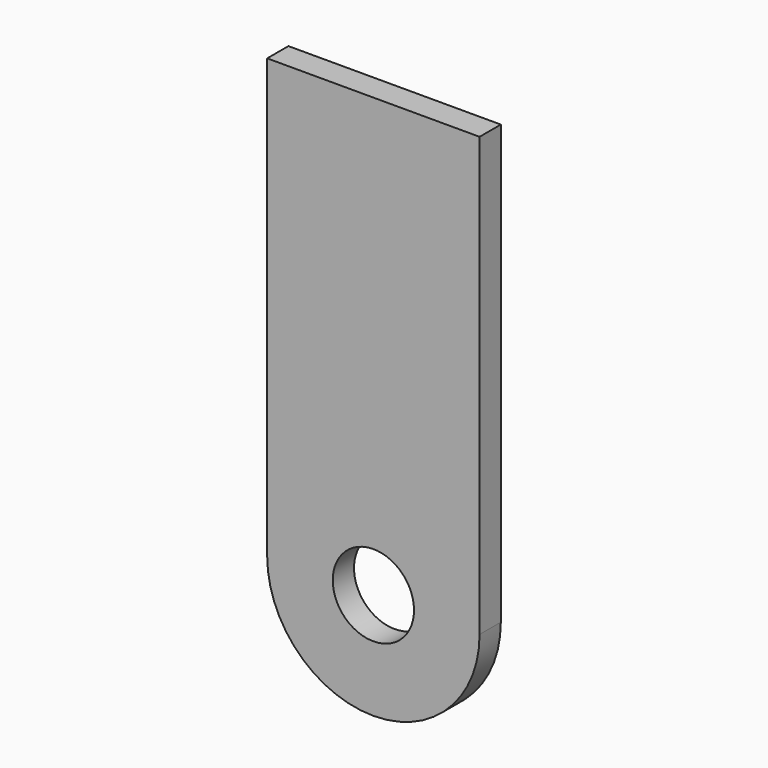
from build123d import *

# Parameters (mm, degrees)
F0_R     = 9.7155
F1_DEPTH = 3.175


with BuildPart() as f1:
    # F0 (on Front) → F1 (new body, symmetric)
    with BuildSketch(Plane.XZ):
        with BuildLine():
            Line((-25.4, 104.775), (-25.4, 0))
            ThreePointArc((-25.4, 0), (0, -25.4), (25.4, 0))
            Line((25.4, 0), (25.4, 104.775))
            Line((25.4, 104.775), (-25.4, 104.775))
        make_face()
        Circle(F0_R, mode=Mode.SUBTRACT)
    extrude(amount=F1_DEPTH, both=True)


solid = f1.part
